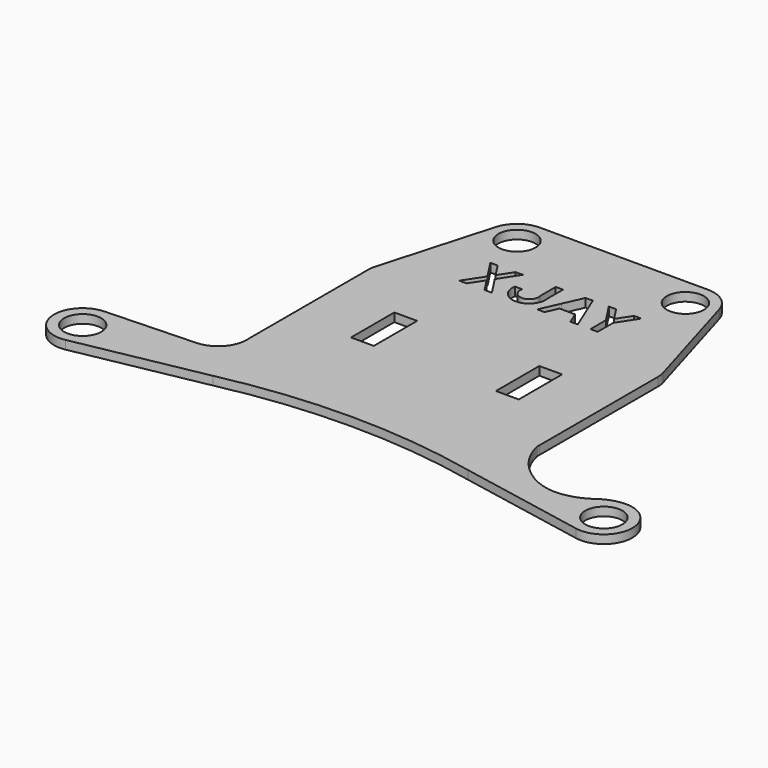
from build123d import *

# Parameters (mm, degrees)
F0_R     = 6.5
F1_DEPTH = 3


with BuildPart() as f1:
    # F0 (on Top) → F1 (new body)
    with BuildSketch(Plane.XY):
        with BuildLine():
            ThreePointArc((-50.4446934155, 54.643037695), (-50.7311517832, 53.2865797574), (-50.8272536099, 51.9035392764))
            Line((-50.8272536099, 51.9035392764), (-50.8272536099, 0))
            Line((-50.8272536099, 0), (-50.793080697, -0.9064006647))
            ThreePointArc((-50.793080697, -0.9064006647), (-53.4535309431, -8.0827958775), (-60.4092310726, -11.2760511869))
            Line((-60.4092310726, -11.2760511869), (-91.7179190296, -12.4564442613))
            ThreePointArc((-91.7179190296, -12.4564442613), (-101.3019147634, -23.5749788423), (-89.4783611915, -32.2743102182))
            Line((-89.4783611915, -32.2743102182), (-44.7528083417, -23.6906495904))
            ThreePointArc((-44.7528083417, -23.6906495904), (-0.027288473, -18.9100440737), (44.6982313957, -23.6906495904))
            Line((44.6982313957, -23.6906495904), (89.4018683635, -32.2701168083))
            ThreePointArc((89.4018683635, -32.2701168083), (101.2221357059, -23.5834967295), (91.6636327073, -12.4564526987))
            ThreePointArc((91.6636327073, -12.4564526987), (86.6833273054, -13.1568395353), (82.2565257549, -15.5437646806))
            ThreePointArc((82.2565257549, -15.5437646806), (77.0307926492, -18.0592618118), (71.3056156264, -18.9857392083))
            ThreePointArc((71.3056156264, -18.9857392083), (65.5296199383, -17.9121006865), (60.3547054978, -15.1308983568))
            ThreePointArc((60.3547054978, -15.1308983568), (54.175499635, -8.9454500235), (50.73856136, -0.9061831743))
            Line((50.73856136, -0.9061831743), (50.7727463901, 0))
            Line((50.7727463901, 0), (50.7727463901, 51.8538707076))
            ThreePointArc((50.7727463901, 51.8538707076), (50.669793885, 53.2851117367), (50.3630562134, 54.6868827959))
            Line((50.3630562134, 54.6868827959), (38.8602722461, 93.6260961278))
            ThreePointArc((38.8602722461, 93.6260961278), (35.256191583, 98.8033936741), (29.2699624228, 100.7930840395))
            Line((29.2699624228, 100.7930840395), (-29.7496853037, 100.7930840395))
            ThreePointArc((-29.7496853037, 100.7930840395), (-35.7748415596, 98.7741549008), (-39.3671251094, 93.5325824581))
            Line((-39.3671251094, 93.5325824581), (-50.4446934155, 54.643037695))
        make_face()
        with Locations((-91.3411689563, -22.4493447103)):
            Circle(F0_R, mode=Mode.SUBTRACT)
        Polygon((-21.4136268049, 36.65), (-21.4136268049, 26.65), (-21.4136268049, 17.65), (-29.4136268049, 17.65), (-29.4136268049, 26.65), (-29.4136268049, 36.65), align=None, mode=Mode.SUBTRACT)
        with Locations((91.2866589082, -22.4493447103)):
            Circle(F0_R, mode=Mode.SUBTRACT)
        Polygon((21.3863731951, 17.65), (21.3863731951, 26.65), (21.3863731951, 36.65), (29.3863731951, 36.65), (29.3863731951, 26.65), (29.3863731951, 17.65), align=None, mode=Mode.SUBTRACT)
        Polygon((-22.8592688218, 69.2477548305), (-27.2865649313, 76.0405882364), (-24.7233938426, 76.0405882364), (-21.5776832774, 71.2141010795), (-18.4319727123, 76.0405882364), (-15.8688016236, 76.0405882364), (-20.2960977331, 69.2477548305), (-15.8688016236, 62.4549214246), (-18.4319727123, 62.4549214246), (-21.5776832774, 67.2814085815), (-24.7233938426, 62.4549214246), (-27.2865649313, 62.4549214246), align=None, mode=Mode.SUBTRACT)
        with BuildLine():
            ThreePointArc((-1.7979582322, 69.2477548305), (-7.5129582322, 62.4999219931), (-13.2279582322, 69.2477548305))
            Line((-13.2279582322, 69.2477548305), (-10.6625582322, 69.2477548305))
            ThreePointArc((-10.6625582322, 69.2477548305), (-7.5129582322, 65.1356067586), (-4.3633582322, 69.2477548305))
            Line((-4.3633582322, 69.2477548305), (-4.3633582322, 76.0405882364))
            Line((-4.3633582322, 76.0405882364), (-1.7979582322, 76.0405882364))
            Line((-1.7979582322, 76.0405882364), (-1.7979582322, 69.2477548305))
        make_face(mode=Mode.SUBTRACT)
        with Locations((-29.7496853037, 90.7930840395)):
            Circle(F0_R, mode=Mode.SUBTRACT)
        Polygon((2.5654, 62.4549214246), (0, 62.4549214246), (3.0334836338, 69.2477548305), (6.0669672675, 76.0405882364), (8.6323672675, 76.0405882364), (11.4274396446, 69.2477548305), (12.4830343056, 66.6823548305), (14.2225120217, 62.4549214246), (11.6571120217, 62.4549214246), (9.9176343056, 66.6823548305), (4.453249927, 66.6823548305), align=None, mode=Mode.SUBTRACT)
        Polygon((18.6675120217, 69.2282911245), (14.2225120217, 76.0405882364), (16.7879120217, 76.0405882364), (19.9375120217, 71.21358914), (23.0871120217, 76.0405882364), (25.6525120217, 76.0405882364), (21.2075120217, 69.2282911245), (21.2075120217, 62.4549214246), (19.9375120217, 62.4549214246), (18.6675120217, 62.4549214246), align=None, mode=Mode.SUBTRACT)
        with Locations((29.2699624228, 90.7930840395)):
            Circle(F0_R, mode=Mode.SUBTRACT)
    extrude(amount=F1_DEPTH)


solid = f1.part
